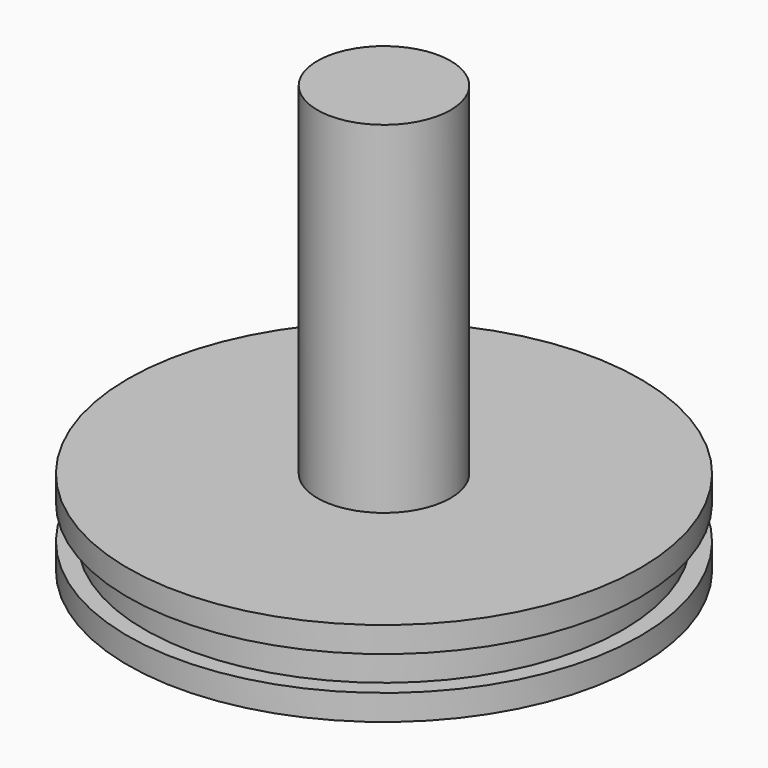
from build123d import *

# Parameters (mm, degrees)
F0_R     = 3.9
F1_DEPTH = 25
F0_R_2   = 15
F2_DEPTH = 5
F3_W     = 2
F3_H     = 2


with BuildPart() as f1:
    # F0 (on Top) → F1 (new body)
    with BuildSketch(Plane.XY):
        Circle(F0_R)
    extrude(amount=F1_DEPTH)

    # F0 (on Top) → F2 (join)
    with BuildSketch(Plane.XY):
        Circle(F0_R_2)
        Circle(F0_R, mode=Mode.SUBTRACT)
    extrude(amount=F2_DEPTH)

    # F3 (on Right) → F4 (revolve, cut)
    with BuildSketch(Plane.YZ):
        with Locations((15, 2.5)):
            Rectangle(F3_W, F3_H)
    revolve(axis=Axis((0, 0, 5), (0, 0, 1)), mode=Mode.SUBTRACT)


solid = f1.part
